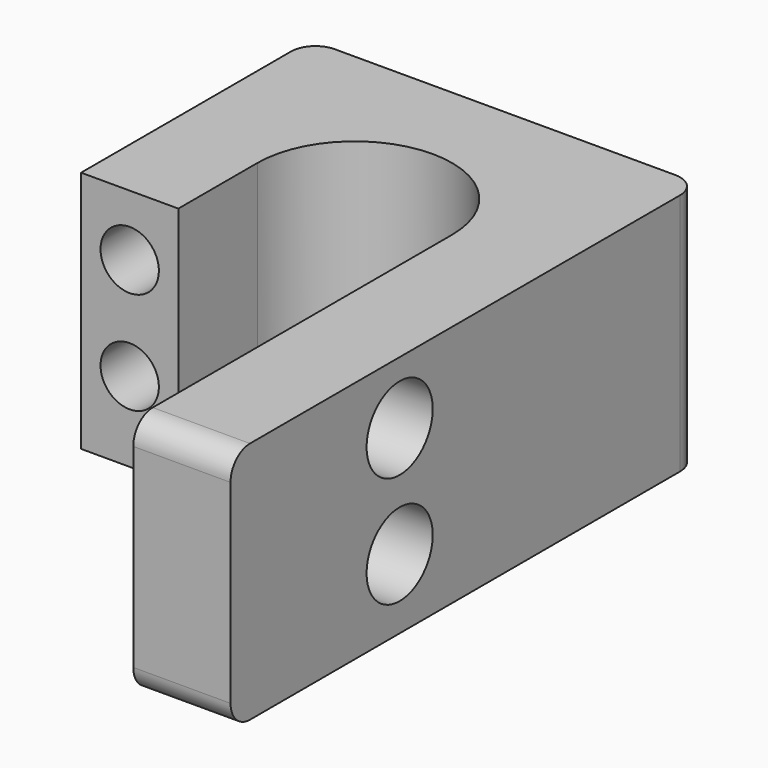
from build123d import *

# Parameters (mm, degrees)
F1_DEPTH = 50
F2_R     = 5
F3_R     = 8.5
F4_DEPTH = 20.001
F5_R     = 6
F6_DEPTH = 25


with BuildPart() as f1:
    # F0 (on Top) → F1 (new body)
    with BuildSketch(Plane.XY):
        with BuildLine():
            ThreePointArc((-20, 0), (0, 20), (20, 0))
            Line((20, 0), (20, -81.932239))
            Line((20, -81.932239), (40, -81.932239))
            Line((40, -81.932239), (40, 38.620689))
            Line((40, 38.620689), (-40, 38.620689))
            Line((-40, 38.620689), (-40, -20.34483))
            Line((-40, -20.34483), (-20, -20.34483))
            Line((-20, -20.34483), (-20, 0))
        make_face()
    extrude(amount=F1_DEPTH)

    # F2
    f2_edges = [f1.edges().sort_by_distance(p)[0] for p in [
        (-40, 38.620689, 25),
        (40, 38.620689, 25),
        (30, -81.932239, 50),
        (30, -81.932239, 0),
    ]]
    fillet(f2_edges, radius=F2_R)

    # F3 (on face) → F4 (cut, through all)
    with BuildSketch(Plane(origin=(20, 0, 0), x_dir=(0, -1, 0), z_dir=(-1, 0, 0))):
        with Locations((38.466119, 37.150957)):
            Circle(F3_R)
        with Locations((38.466119, 14.330863)):
            Circle(F3_R)
    extrude(amount=-F4_DEPTH, mode=Mode.SUBTRACT)

    # F5 (on face) → F6 (cut)
    with BuildSketch(Plane.XZ.offset(20.34483)):
        with Locations((-30, 37.447322)):
            Circle(F5_R)
        with Locations((-30, 16.405419)):
            Circle(F5_R)
    extrude(amount=-F6_DEPTH, mode=Mode.SUBTRACT)


solid = f1.part
